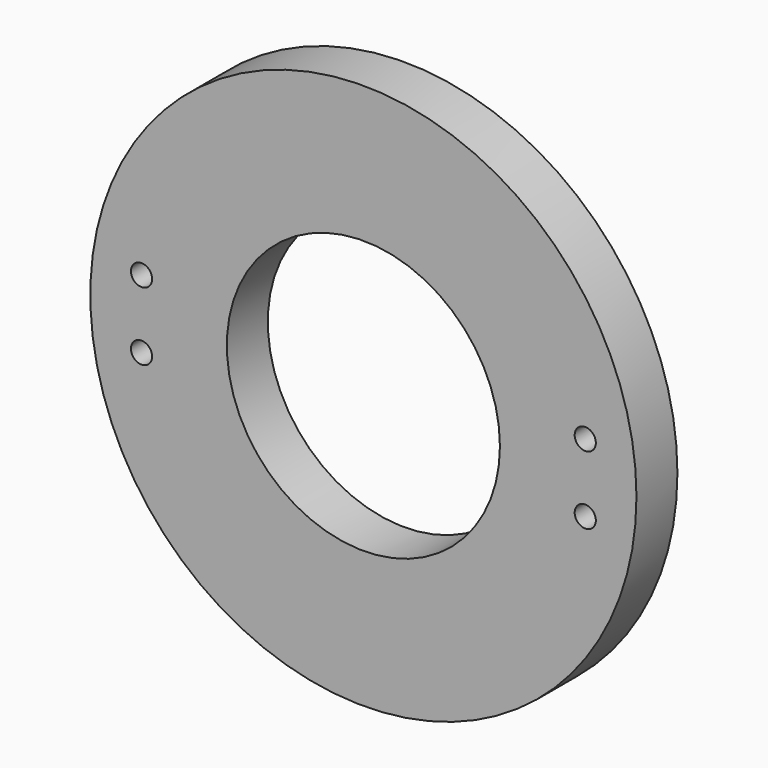
from build123d import *

# Parameters (mm, degrees)
F0_R     = 80
F0_R_2   = 3.1
F0_R_3   = 40
F1_DEPTH = 15


with BuildPart() as f1:
    # F0 (on Front) → F1 (new body)
    with BuildSketch(Plane.XZ):
        Circle(F0_R)
        with Locations((-65, -10)):
            Circle(F0_R_2, mode=Mode.SUBTRACT)
        with Locations((65, -10)):
            Circle(F0_R_2, mode=Mode.SUBTRACT)
        with Locations((-65, 10)):
            Circle(F0_R_2, mode=Mode.SUBTRACT)
        Circle(F0_R_3, mode=Mode.SUBTRACT)
        with Locations((65, 10)):
            Circle(F0_R_2, mode=Mode.SUBTRACT)
    extrude(amount=F1_DEPTH)


solid = f1.part
